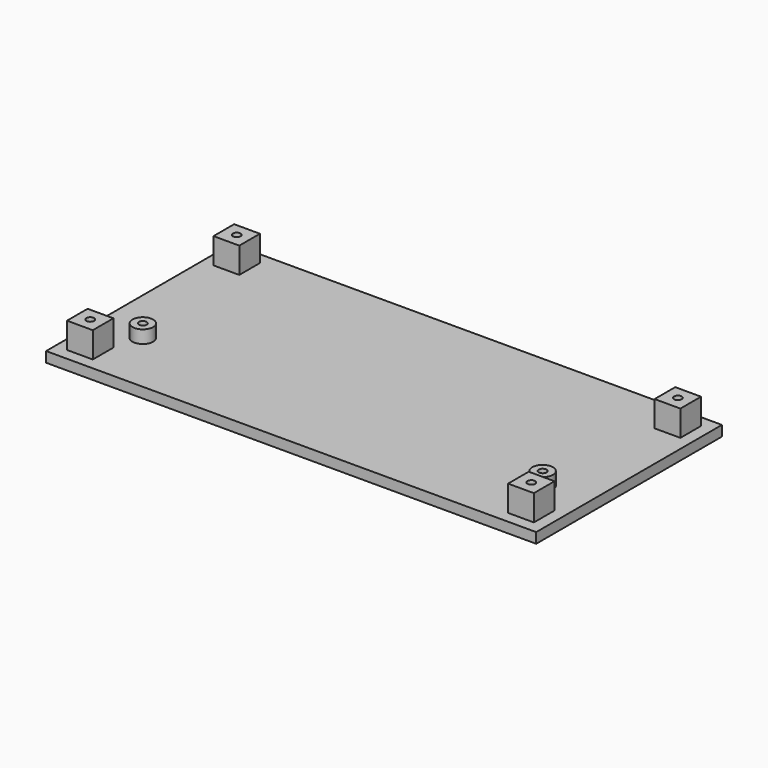
from build123d import *

# Parameters (mm, degrees)
F0_W     = 190
F0_H     = 90
F0_W_2   = 10
F0_H_2   = 10
F0_R     = 4
F0_R_2   = 1.5
F1_DEPTH = 4
F2_DEPTH = 5
F3_DEPTH = 10


with BuildPart() as f1:
    # F0 (on Top) → F1 (new body)
    with BuildSketch(Plane.XY):
        Rectangle(F0_W, F0_H)
        with Locations((-85.5, -35.5)):
            Rectangle(F0_W_2, F0_H_2, mode=Mode.SUBTRACT)
        with Locations((-77.5, -20)):
            Circle(F0_R, mode=Mode.SUBTRACT)
        with Locations((85.5, -35.5)):
            Rectangle(F0_W_2, F0_H_2, mode=Mode.SUBTRACT)
        with Locations((77.5, -20)):
            Circle(F0_R, mode=Mode.SUBTRACT)
        with Locations((-85.5, 35.5)):
            Rectangle(F0_W_2, F0_H_2, mode=Mode.SUBTRACT)
        with Locations((85.5, 35.5)):
            Rectangle(F0_W_2, F0_H_2, mode=Mode.SUBTRACT)
        with Locations((-85.5, 35.5)):
            Rectangle(F0_W_2, F0_H_2)
        with Locations((-85.5, 35.5)):
            Circle(F0_R_2, mode=Mode.SUBTRACT)
        with Locations((77.5, -20)):
            Circle(F0_R)
        with Locations((77.5, -20)):
            Circle(F0_R_2, mode=Mode.SUBTRACT)
        with Locations((-77.5, -20)):
            Circle(F0_R)
        with Locations((-77.5, -20)):
            Circle(F0_R_2, mode=Mode.SUBTRACT)
        with Locations((85.5, -35.5)):
            Rectangle(F0_W_2, F0_H_2)
        with Locations((85.5, -35.5)):
            Circle(F0_R_2, mode=Mode.SUBTRACT)
        with Locations((-85.5, -35.5)):
            Rectangle(F0_W_2, F0_H_2)
        with Locations((-85.5, -35.5)):
            Circle(F0_R_2, mode=Mode.SUBTRACT)
        with Locations((85.5, 35.5)):
            Rectangle(F0_W_2, F0_H_2)
        with Locations((85.5, 35.5)):
            Circle(F0_R_2, mode=Mode.SUBTRACT)
        with Locations((85.5, -35.5)):
            Circle(F0_R_2)
        with Locations((-85.5, -35.5)):
            Circle(F0_R_2)
        with Locations((85.5, 35.5)):
            Circle(F0_R_2)
        with Locations((-85.5, 35.5)):
            Circle(F0_R_2)
        with Locations((77.5, -20)):
            Circle(F0_R_2)
        with Locations((-77.5, -20)):
            Circle(F0_R_2)
    extrude(amount=-F1_DEPTH)

    # F0 (on Top) → F2 (join)
    with BuildSketch(Plane.XY):
        with Locations((77.5, -20)):
            Circle(F0_R)
        with Locations((77.5, -20)):
            Circle(F0_R_2, mode=Mode.SUBTRACT)
        with Locations((-77.5, -20)):
            Circle(F0_R)
        with Locations((-77.5, -20)):
            Circle(F0_R_2, mode=Mode.SUBTRACT)
    extrude(amount=F2_DEPTH)

    # F0 (on Top) → F3 (join)
    with BuildSketch(Plane.XY):
        with Locations((-85.5, -35.5)):
            Rectangle(F0_W_2, F0_H_2)
        with Locations((-85.5, -35.5)):
            Circle(F0_R_2, mode=Mode.SUBTRACT)
        with Locations((-85.5, 35.5)):
            Rectangle(F0_W_2, F0_H_2)
        with Locations((-85.5, 35.5)):
            Circle(F0_R_2, mode=Mode.SUBTRACT)
        with Locations((85.5, 35.5)):
            Rectangle(F0_W_2, F0_H_2)
        with Locations((85.5, 35.5)):
            Circle(F0_R_2, mode=Mode.SUBTRACT)
        with Locations((85.5, -35.5)):
            Rectangle(F0_W_2, F0_H_2)
        with Locations((85.5, -35.5)):
            Circle(F0_R_2, mode=Mode.SUBTRACT)
    extrude(amount=F3_DEPTH)


solid = f1.part
